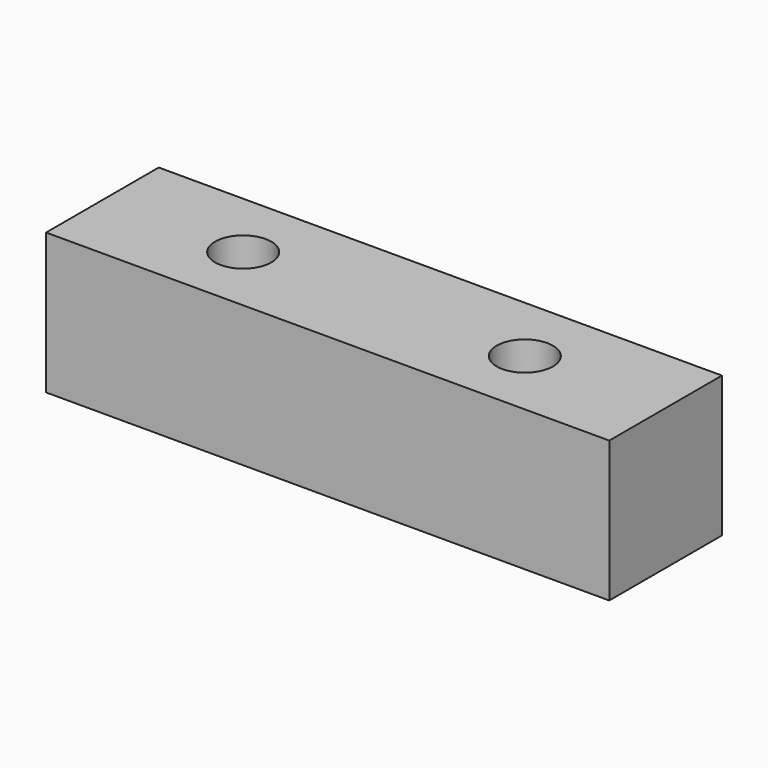
from build123d import *

# Parameters (mm, degrees)
F0_W     = 20
F0_H     = 5
F1_DEPTH = 5
F2_R     = 1
F3_DEPTH = 25


with BuildPart() as f1:
    # F0 (on Front) → F1 (new body)
    with BuildSketch(Plane.XZ):
        with Locations((10, 2.5)):
            Rectangle(F0_W, F0_H)
    extrude(amount=F1_DEPTH)

    # F2 (on face) → F3 (cut)
    with BuildSketch(Plane(origin=(0, 0, 0), x_dir=(1, 0, 0), z_dir=(0, 0, -1))):
        with Locations((15, 2.5)):
            Circle(F2_R)
        with Locations((5, 2.5)):
            Circle(F2_R)
    extrude(amount=-F3_DEPTH, mode=Mode.SUBTRACT)


solid = f1.part
